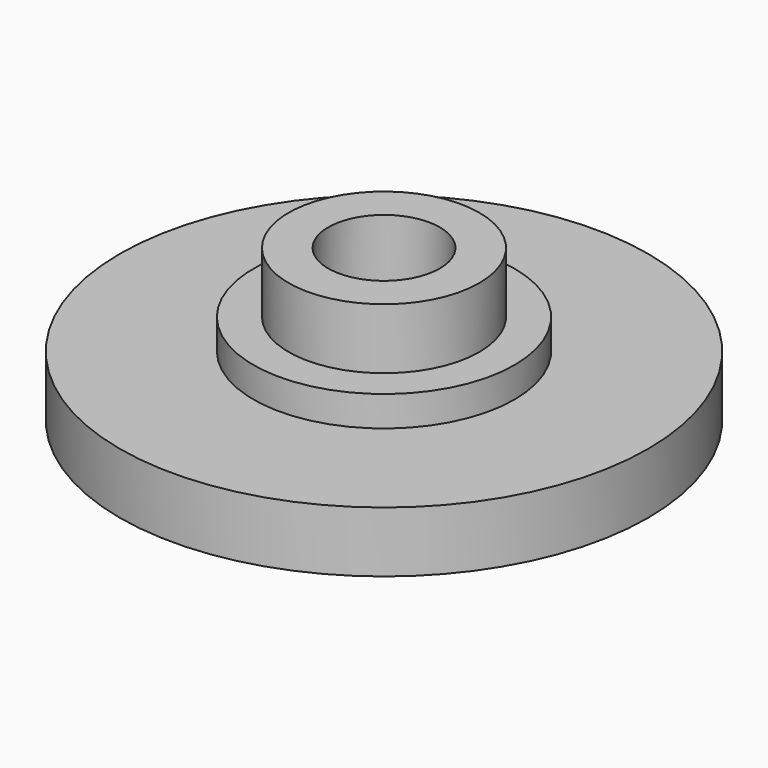
from build123d import *

# Parameters (mm, degrees)
F0_R     = 11.049
F1_DEPTH = 2.54
F2_R     = 5.461
F3_DEPTH = 3.81
F4_R     = 3.9878
F4_R_2   = 2.334094
F5_DEPTH = 6.35


with BuildPart() as f1:
    # F0 (on Top) → F1 (new body)
    with BuildSketch(Plane.XY):
        Circle(F0_R)
    extrude(amount=F1_DEPTH)

    # F2 (on Top) → F3 (join)
    with BuildSketch(Plane.XY):
        Circle(F2_R)
    extrude(amount=F3_DEPTH)

    # F4 (on Top) → F5 (join)
    with BuildSketch(Plane.XY):
        Circle(F4_R)
        Circle(F4_R_2, mode=Mode.SUBTRACT)
    extrude(amount=F5_DEPTH)


solid = f1.part
